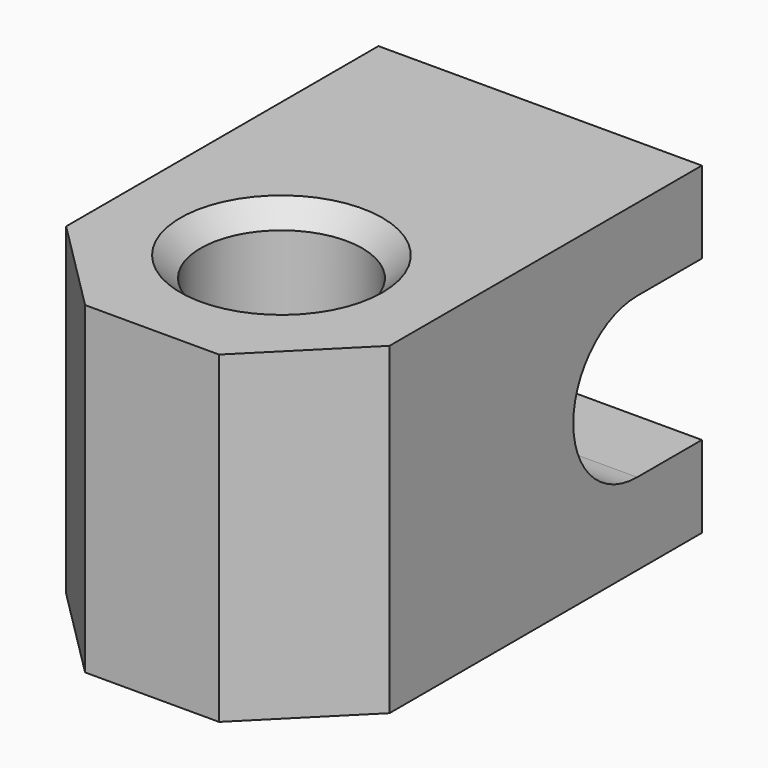
from build123d import *

# Parameters (mm, degrees)
F0_R          = 4
F1_DEPTH      = 8
F3_DEPTH      = 8.001
F3_DEPTH_BACK = 8.001
F4_SIZE       = 1


with BuildPart() as f1:
    # F0 (on Top) → F1 (new body, symmetric)
    with BuildSketch(Plane.XY):
        Polygon((-8, 16), (-8, 0), (-8, -3.313708499), (-3.313708499, -8), (3.313708499, -8), (8, -3.313708499), (8, 0), (8, 16), align=None)
        Circle(F0_R, mode=Mode.SUBTRACT)
    extrude(amount=F1_DEPTH, both=True)

    # F2 (on Right) → F3 (cut, two sides)
    with BuildSketch(Plane.YZ) as f3_sk:
        with BuildLine():
            Line((16, 3.95), (12, 3.95))
            ThreePointArc((12, 3.95), (8.05, 0), (12, -3.95))
            Line((12, -3.95), (16, -3.95))
            Line((16, -3.95), (16, 3.95))
        make_face()
    extrude(amount=-F3_DEPTH, mode=Mode.SUBTRACT)
    extrude(f3_sk.sketch, amount=F3_DEPTH_BACK, mode=Mode.SUBTRACT)

    # F4
    f4_edges = [f1.edges().sort_by_distance(p)[0] for p in [
        (-4, 0, 8),
        (-4, 0, -8),
    ]]
    chamfer(f4_edges, length=F4_SIZE)


solid = f1.part
